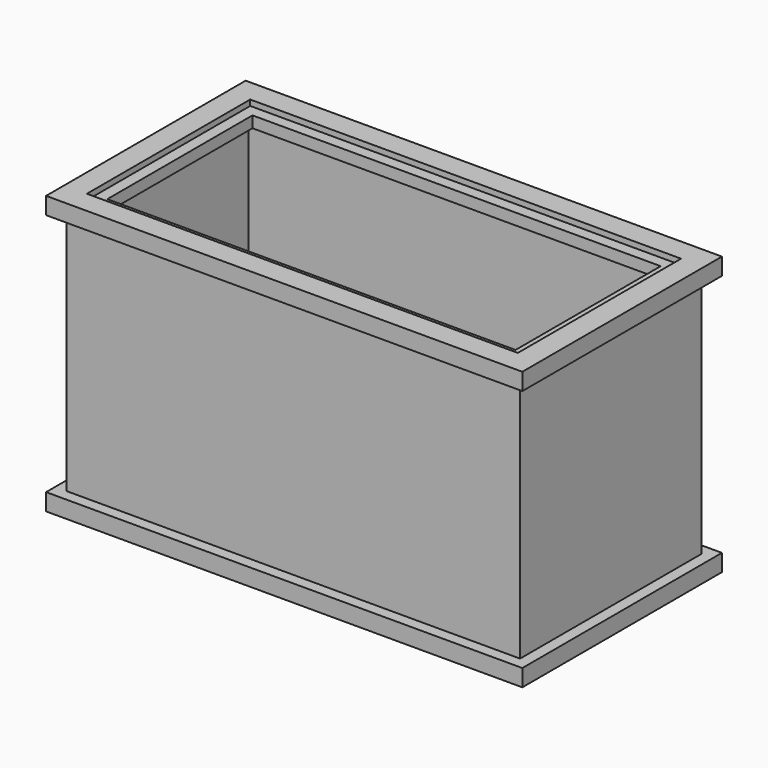
from build123d import *

# Parameters (mm, degrees)
F0_W      = 533.4
F0_H      = 279.4
F1_DEPTH  = 19.05
F2_W      = 508
F2_H      = 254
F2_W_2    = 502
F2_H_2    = 248
F3_DEPTH  = 279.4
F4_W      = 533.4
F4_H      = 279.4
F5_DEPTH  = 6.35
F6_W      = 533.4
F6_H      = 279.4
F7_DEPTH  = 6.35
F8_W      = 482.6
F8_H      = 228.6
F9_DEPTH  = 6.35
F10_W     = 457.2
F10_H     = 203.2
F11_DEPTH = 25.4


with BuildPart() as f1:
    # F0 (on Top) → F1 (new body)
    with BuildSketch(Plane.XY):
        with Locations((17.4243982553, 36.711462517)):
            Rectangle(F0_W, F0_H)
    extrude(amount=F1_DEPTH)


with BuildPart() as f3:
    # F2 (on face) → F3 (new body)
    with BuildSketch(Plane.XY.offset(19.05)):
        with Locations((17.4243982553, 36.711462517)):
            Rectangle(F2_W, F2_H)
        with Locations((17.4243982553, 36.711462517)):
            Rectangle(F2_W_2, F2_H_2, mode=Mode.SUBTRACT)
    extrude(amount=F3_DEPTH)


with BuildPart() as f5:
    # F4 (on face) → F5 (new body, symmetric)
    with BuildSketch(Plane.XY.offset(298.45)):
        with Locations((17.4243982553, 36.711462517)):
            Rectangle(F4_W, F4_H)
    extrude(amount=F5_DEPTH, both=True)

    # F6 (on face) → F7 (join)
    with BuildSketch(Plane.XY.offset(304.8)):
        with Locations((17.4243982553, 36.711462517)):
            Rectangle(F6_W, F6_H)
    extrude(amount=F7_DEPTH)

    # F8 (on face) → F9 (cut)
    with BuildSketch(Plane.XY.offset(311.15)):
        with Locations((17.4243982553, 36.711462517)):
            Rectangle(F8_W, F8_H)
    extrude(amount=-F9_DEPTH, mode=Mode.SUBTRACT)

    # F10 (on face) → F11 (cut)
    with BuildSketch(Plane.XY.offset(304.8)):
        with Locations((17.4243982553, 36.711462517)):
            Rectangle(F10_W, F10_H)
    extrude(amount=-F11_DEPTH, mode=Mode.SUBTRACT)


solid = Compound([f1.part, f3.part, f5.part])
